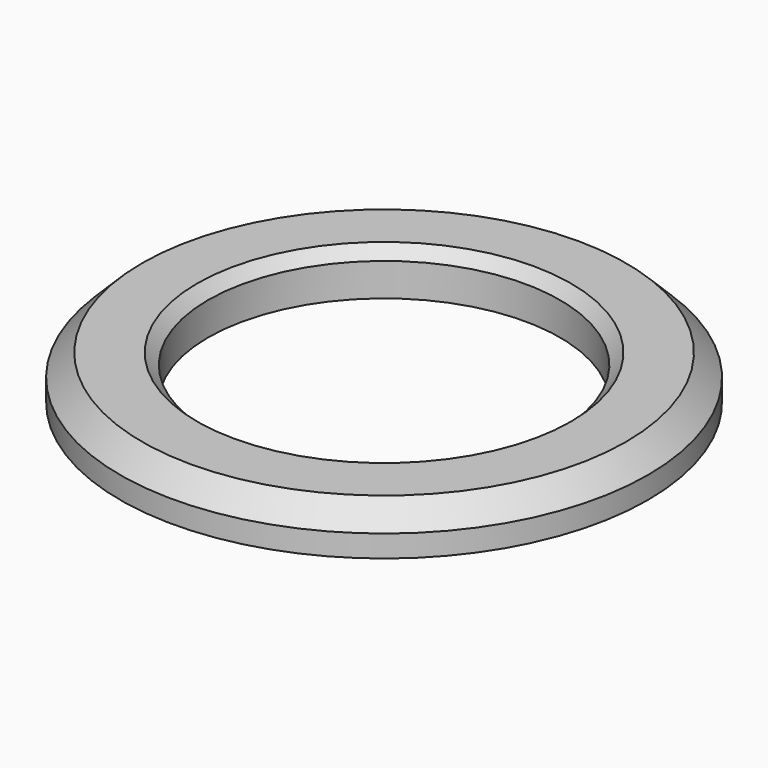
from build123d import *

# Parameters (mm, degrees)
SKETCH_R        = 12
SKETCH_R_2      = 8
PAD_DEPTH       = 2
CHAMFER_SIZE    = 0.5
CHAMFER001_SIZE = 1


with BuildPart() as part:
    # Sketch → Pad (new body)
    with BuildSketch(Plane.XY):
        Circle(SKETCH_R)
        Circle(SKETCH_R_2, mode=Mode.SUBTRACT)
    extrude(amount=PAD_DEPTH)

    # Chamfer
    chamfer_edges = [part.edges().sort_by_distance(p)[0] for p in [
        (-8, 0, 2),
    ]]
    chamfer(chamfer_edges, length=CHAMFER_SIZE)

    # Chamfer001
    chamfer001_edges = [part.edges().sort_by_distance(p)[0] for p in [
        (-12, 0, 2),
    ]]
    chamfer(chamfer001_edges, length=CHAMFER001_SIZE)


solid = part.part
